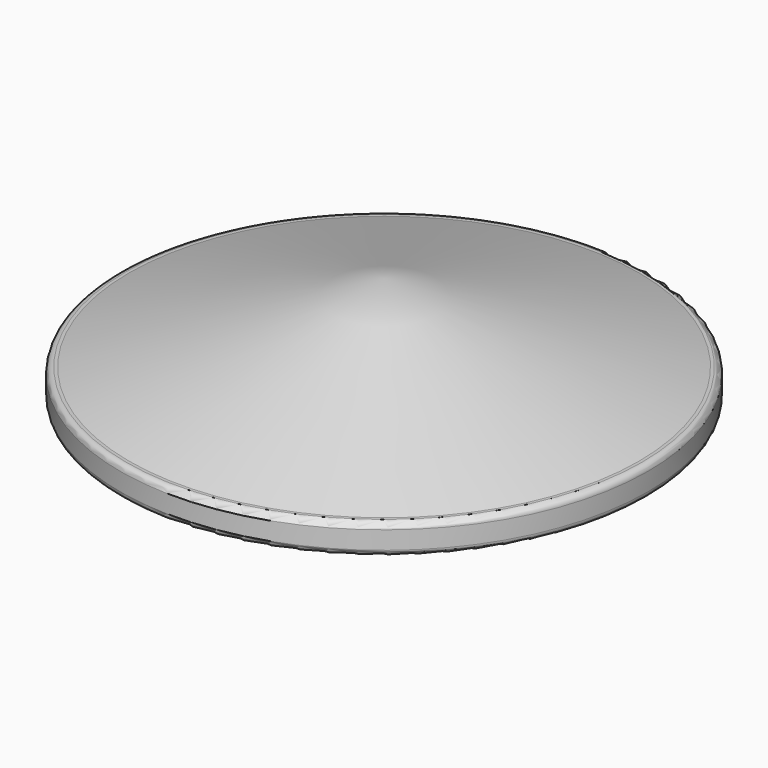
from build123d import *

# Parameters (mm, degrees)
F2_R          = 44
F2_R_2        = 42.5
F3_DEPTH      = 3
F3_DEPTH_BACK = 2
F4_R          = 1


with BuildPart() as f1:
    # F0 (on Front) → F1 (revolve)
    with BuildSketch(Plane.XZ):
        Polygon((0, 15), (0, 0), (42.5, 0), (42.5, 2), align=None)
    revolve(axis=Axis((0, 0, 7.5), (0, 0, 1)))


with BuildPart() as f3:
    # F2 (on face) → F3 (new body, two sides)
    with BuildSketch(Plane(origin=(0, 0, 0), x_dir=(1, 0, 0), z_dir=(0, 0, -1))) as f3_sk:
        Circle(F2_R)
        Circle(F2_R_2, mode=Mode.SUBTRACT)
    extrude(amount=F3_DEPTH)
    extrude(f3_sk.sketch, amount=-F3_DEPTH_BACK)

    # F4
    f4_edges = [f3.edges().sort_by_distance(p)[0] for p in [
        (-44, 0, -3),
        (-44, 0, 2),
    ]]
    fillet(f4_edges, radius=F4_R)


solid = Compound([f1.part, f3.part])
